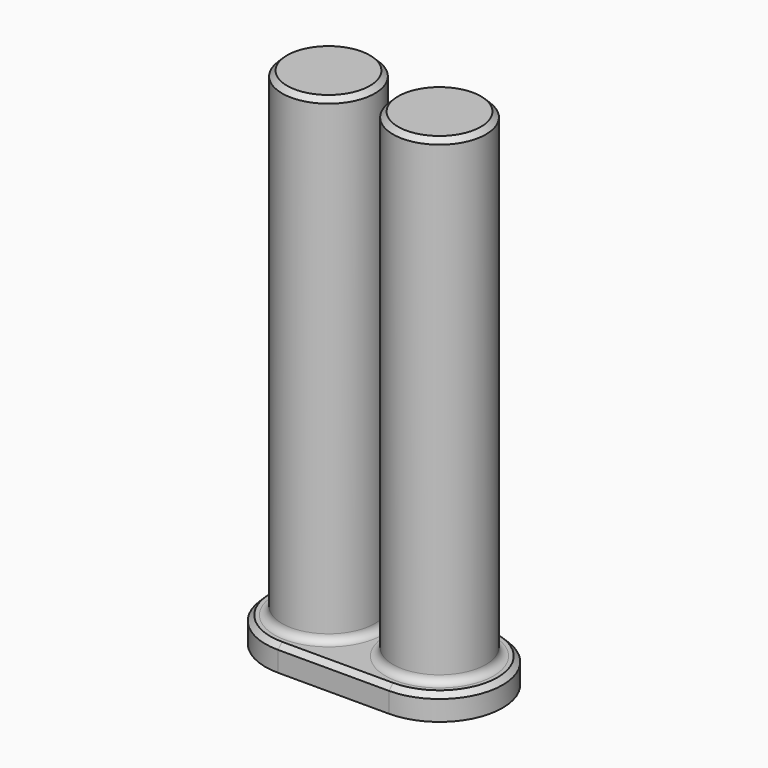
from build123d import *

# Parameters (mm, degrees)
PAD_DEPTH       = 5
SKETCH001_R     = 9.2
PAD001_DEPTH    = 95
FILLET_R        = 1.5
CHAMFER_SIZE    = 1
CHAMFER001_SIZE = 1


with BuildPart() as part:
    # Sketch → Pad (new body)
    with BuildSketch(Plane.XY):
        with BuildLine():
            ThreePointArc((11, -12.5), (23.5, 0), (11, 12.5))
            Line((11, 12.5), (0, 12.5))
            Line((0, 12.5), (0, -12.5))
            Line((0, -12.5), (11, -12.5))
        make_face()
    pad = extrude(amount=PAD_DEPTH)

    # Mirrored: Pad across Sketch V_Axis
    add(pad.mirror(Plane(origin=(0, 0, 0), x_dir=(0, 0, 1), z_dir=(1, 0, 0))))

    # Sketch001 (on Face5 of Mirrored) → Pad001 (join)
    with BuildSketch(Plane.XY.offset(5)):
        with Locations((11, 0)):
            Circle(SKETCH001_R)
    pad001 = extrude(amount=PAD001_DEPTH)

    # Mirrored001: Pad001 across Sketch001 V_Axis
    add(pad001.mirror(Plane(origin=(0, 0, 5), x_dir=(0, 0, 1), z_dir=(1, 0, 0))))

    # Fillet
    fillet_edges = [part.edges().sort_by_distance(p)[0] for p in [
        (-1.8, 0, 5),
        (1.8, 0, 5),
    ]]
    fillet(fillet_edges, radius=FILLET_R)

    # Chamfer
    chamfer_edges = [part.edges().sort_by_distance(p)[0] for p in [
        (-23.5, 0, 5),
        (0, -12.5, 5),
        (23.5, 0, 5),
        (0, 12.5, 5),
    ]]
    chamfer(chamfer_edges, length=CHAMFER_SIZE)

    # Chamfer001
    chamfer001_edges = [part.edges().sort_by_distance(p)[0] for p in [
        (-1.8, 0, 100),
        (1.8, 0, 100),
    ]]
    chamfer(chamfer001_edges, length=CHAMFER001_SIZE)


solid = part.part
